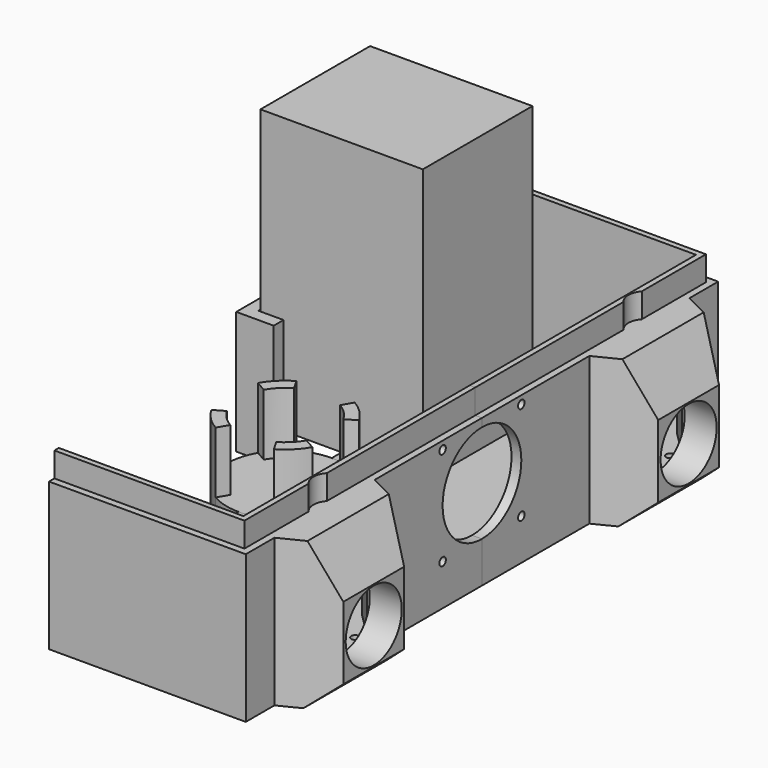
from build123d import *

# Parameters (mm, degrees)
SKETCH010_R        = 23.7
PAD003_DEPTH       = 10
PAD002_DEPTH       = 35
POLARPATTERN_COUNT = 4
SKETCH_W           = 80
SKETCH_H           = 120
PAD_DEPTH          = 10
PAD001_DEPTH       = 60
SKETCH003_W        = 30.9
SKETCH003_H        = 40
POCKET_DEPTH       = 12
SKETCH004_R        = 14.25
POCKET001_DEPTH    = 100.001
SKETCH005_R        = 1.65
POCKET002_DEPTH    = 10
POCKET003_DEPTH    = 1.8
POCKET004_DEPTH    = 120.001
SKETCH009_R        = 23.7
POCKET005_DEPTH    = 60.001
PAD004_DEPTH       = 10
SKETCH016_R        = 1.65
POCKET009_DEPTH    = 100.001
SKETCH017_W        = 23.3
SKETCH017_H        = 50.3
POCKET010_DEPTH    = 1
CHAMFER_SIZE       = 9.9
SKETCH018_W        = 66
SKETCH018_H        = 55.7
PAD005_DEPTH       = 112
PAD006_DEPTH       = 50


with BuildPart() as obj1:
    # Sketch010 → Pad003 (new body)
    with BuildSketch(Plane.XY):
        Circle(SKETCH010_R)
    extrude(amount=PAD003_DEPTH)

    # Sketch008 → Pad002 (join)
    with BuildSketch(Plane.XY):
        with BuildLine():
            ThreePointArc((16.194675, 9.35), (13.222897, 13.222897), (9.35, 16.194675))
            Line((9.35, 16.194675), (11.85, 20.524802))
            ThreePointArc((20.524802, 11.85), (16.758431, 16.758431), (11.85, 20.524802))
            Line((16.194675, 9.35), (20.524802, 11.85))
        make_face()
    pad002 = extrude(amount=PAD002_DEPTH)

    # PolarPattern: Pad002 ×4 about axis
    polarpattern_axis = Axis((0, 0, 0), (0, 0, 1))
    for i in range(1, POLARPATTERN_COUNT):
        add(pad002.rotate(polarpattern_axis, i * 360 / POLARPATTERN_COUNT))


with BuildPart() as body_q11_lower:
    # Sketch → Pad (new body)
    with BuildSketch(Plane.XY):
        with Locations((-40, 60)):
            Rectangle(SKETCH_W, SKETCH_H)
    extrude(amount=PAD_DEPTH)

    # Sketch002 → Pad001 (join)
    with BuildSketch(Plane.XY):
        Polygon((0, 115), (0, 120), (-80, 120), (-80, 105.45), (-100, 95.45), (-100, 64.55), (-80, 54.55), (-80, 0), (-75, 0), (-75, 115), align=None)
    extrude(amount=PAD001_DEPTH)

    # Sketch003 → Pocket (cut)
    with BuildSketch(Plane.YZ.offset(-75)):
        with Locations((80, 30)):
            Rectangle(SKETCH003_W, SKETCH003_H)
    extrude(amount=-POCKET_DEPTH, mode=Mode.SUBTRACT)

    # Sketch004 → Pocket001 (cut, through all)
    with BuildSketch(Plane.YZ):
        with Locations((80, 24.75)):
            Circle(SKETCH004_R)
    extrude(amount=-POCKET001_DEPTH, mode=Mode.SUBTRACT)

    # Sketch005 → Pocket002 (cut)
    with BuildSketch(Plane.XY):
        with Locations((-82.875, 92)):
            Circle(SKETCH005_R)
        with Locations((-58.875, 92)):
            Circle(SKETCH005_R)
        with Locations((-58.875, 68)):
            Circle(SKETCH005_R)
        with Locations((-82.875, 68)):
            Circle(SKETCH005_R)
    extrude(amount=POCKET002_DEPTH, mode=Mode.SUBTRACT)

    # Sketch006 → Pocket003 (cut)
    with BuildSketch(Plane.XY):
        Polygon((-79.80061, 93.775), (-82.875, 95.55), (-85.94939, 93.775), (-85.94939, 90.225), (-82.875, 88.45), (-79.80061, 90.225), align=None)
        Polygon((-55.80061, 93.775), (-58.875, 95.55), (-61.94939, 93.775), (-61.94939, 90.225), (-58.875, 88.45), (-55.80061, 90.225), align=None)
        Polygon((-58.875, 71.55), (-61.94939, 69.775), (-61.94939, 66.225), (-58.875, 64.45), (-55.80061, 66.225), (-55.80061, 69.775), align=None)
        Polygon((-79.80061, 69.775), (-82.875, 71.55), (-85.94939, 69.775), (-85.94939, 66.225), (-82.875, 64.45), (-79.80061, 66.225), align=None)
    extrude(amount=POCKET003_DEPTH, mode=Mode.SUBTRACT)

    # Sketch007 → Pocket004 (cut, through all)
    with BuildSketch(Plane.XZ):
        Polygon((-89.6, 60), (-100, 39.5), (-100, 60), align=None)
        Polygon((-88.4, 0), (-100, 10), (-100, 0), align=None)
    extrude(amount=-POCKET004_DEPTH, mode=Mode.SUBTRACT)

    # Sketch009 → Pocket005 (cut, through all)
    with BuildSketch(Plane.XY):
        Circle(SKETCH009_R)
    extrude(amount=POCKET005_DEPTH, mode=Mode.SUBTRACT)

    # Sketch014 → Pad004 (join)
    with BuildSketch(Plane.XY.offset(60)):
        with BuildLine():
            Line((0, 115), (0, 117.25))
            Line((0, 117.25), (-77.25, 117.25))
            Line((-77.25, 117.25), (-77.25, 84.648925))
            ThreePointArc((-77.25, 75.351075), (-75.5, 80), (-77.25, 84.648925))
            Line((-77.25, 0), (-77.25, 75.351075))
            Line((-77.25, 0), (-75, 0))
            Line((-75, 0), (-75, 115))
            Line((-75, 115), (0, 115))
        make_face()
    extrude(amount=PAD004_DEPTH)

    # Sketch016 → Pocket009 (cut, through all)
    with BuildSketch(Plane.YZ):
        with Locations((20, 56.7)):
            Circle(SKETCH016_R)
        with Locations((20, 16.7)):
            Circle(SKETCH016_R)
        with BuildLine():
            ThreePointArc((0, 16.7), (20, 36.7), (0, 56.7))
            Line((0, 56.7), (0, 16.7))
        make_face()
    extrude(amount=-POCKET009_DEPTH, mode=Mode.SUBTRACT)

    # Sketch017 → Pocket010 (cut)
    with BuildSketch(Plane.YZ.offset(-75)):
        with Locations((11.65, 35.15)):
            Rectangle(SKETCH017_W, SKETCH017_H)
    extrude(amount=-POCKET010_DEPTH, mode=Mode.SUBTRACT)

    # Chamfer
    chamfer_edges = [body_q11_lower.edges().sort_by_distance(p)[0] for p in [
        (-75, 95.45, 30),
        (-75, 80, 50),
        (-75, 64.55, 30),
    ]]
    chamfer(chamfer_edges, length=CHAMFER_SIZE)


with BuildPart() as part_mirroring001:
    # Part__Mirroring001: instance of Body-q11-lower
    add(body_q11_lower.part.mirror(Plane(origin=(0, 0, 0), x_dir=(0, -1, 0), z_dir=(1, 0, 0))))


with BuildPart() as part_mirroring:
    # Part__Mirroring: instance of Body-q11-lower
    add(body_q11_lower.part.mirror(Plane(origin=(-50, 4e-06, 35), x_dir=(1, 0, 0), z_dir=(0, 1, 0))))


with BuildPart() as part_mirroring002:
    # Part__Mirroring002: instance of Part__Mirroring
    add(part_mirroring.part.mirror(Plane(origin=(0, 0, 0), x_dir=(0, -1, 0), z_dir=(1, 0, 0))))


with BuildPart() as body_battery:
    # Sketch018 → Pad005 (new body)
    with BuildSketch(Plane(origin=(0, 28.7, 10), x_dir=(1, 0, 0), z_dir=(0, 0, 1))):
        with Locations((0, 27.85)):
            Rectangle(SKETCH018_W, SKETCH018_H)
    extrude(amount=PAD005_DEPTH)


with BuildPart() as body003:
    # Sketch021 → Pad006 (new body)
    with BuildSketch(Plane.XY):
        Polygon((-38.444878, 38.422511), (-38.444878, 23.207707), (-23.230074, 23.207707), (-23.230074, 28.207707), (-33.444878, 28.207707), (-33.444878, 38.422511), align=None)
    extrude(amount=PAD006_DEPTH)


solid = Compound([obj1.part, part_mirroring001.part, part_mirroring002.part, body_battery.part, body003.part])
